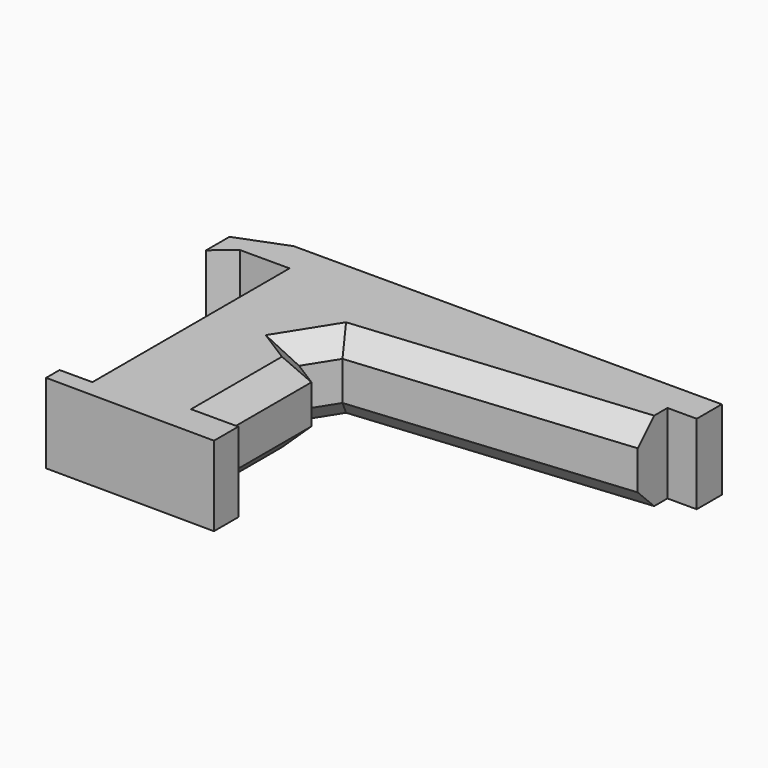
from build123d import *

# Parameters (mm, degrees)
F1_DEPTH = 19.812
F2_SIZE  = 5.08
F3_SIZE  = 5.08


with BuildPart() as f1:
    # F0 (on Top) → F1 (new body)
    with BuildSketch(Plane.XY):
        Polygon((-58.608726, -45.600105), (-58.608726, -49.796436), (-16.645437, -50.076187), (-16.645437, -42.522795), (-23.311197, -42.522795), (-23.311197, -25.737481), (-23.311197, -11.458973), (-29.514179, -7.553392), (-24.758339, 0), (43.50194, 6.43437), (43.50194, 15.666293), (50.775576, 15.666293), (50.775576, 23.49944), (41.263901, 23.49944), (38.186591, 28.535035), (-52.174356, 28.535035), (-55.531416, 23.49944), (-67.840651, 18.743601), (-67.840651, 11.469965), (-62.805057, 15.666293), (-55.531416, 15.666293), (-55.531416, -45.600105), align=None)
    extrude(amount=F1_DEPTH)

    # F2
    f2_edges = [f1.edges().sort_by_distance(p)[0] for p in [
        (-6.993882, 28.535035, 19.812),
        (9.3718, 3.217185, 19.812),
        (-55.531416, -14.966906, 19.812),
        (-23.311197, -26.990884, 19.812),
        (-26.412688, -9.506182, 19.812),
        (-27.136259, -3.776696, 19.812),
    ]]
    chamfer(f2_edges, length=F2_SIZE)

    # F3
    f3_edges = [f1.edges().sort_by_distance(p)[0] for p in [
        (-55.531416, -14.966906, 0),
        (-6.993882, 28.535035, 0),
        (9.3718, 3.217185, 0),
        (-23.311197, -26.990884, 0),
        (-26.412688, -9.506182, 0),
        (-27.136259, -3.776696, 0),
    ]]
    chamfer(f3_edges, length=F3_SIZE)


solid = f1.part
